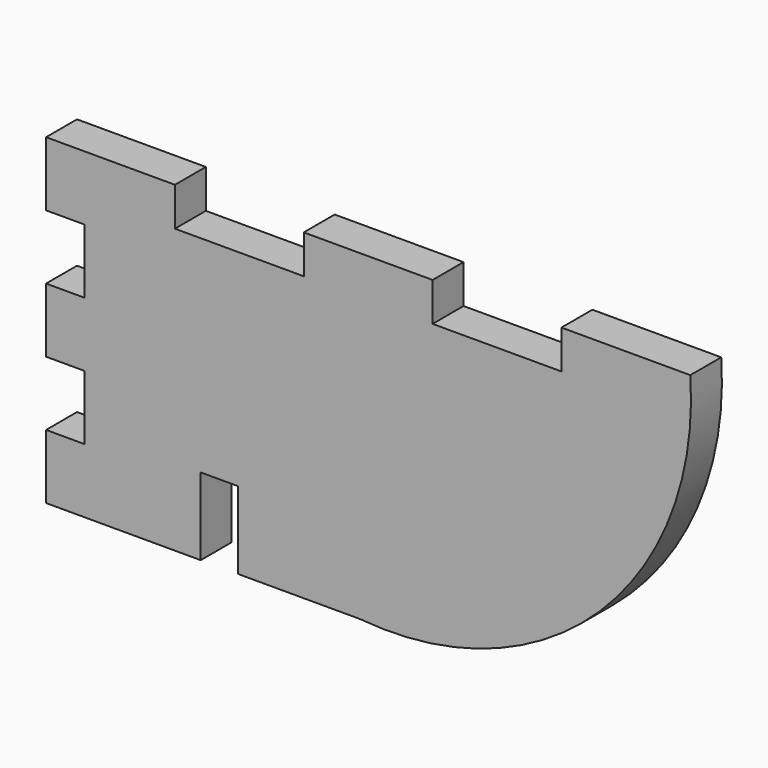
from build123d import *

# Parameters (mm, degrees)
F1_DEPTH = 3


with BuildPart() as f1:
    # F0 (on Front) → F1 (new body)
    with BuildSketch(Plane.XZ):
        with BuildLine():
            Line((-20.945015, -5), (-11.508791, -5))
            ThreePointArc((-11.508791, -5), (7.107153, 1.562372), (14.154985, 20))
            Line((14.154985, 20), (4.154985, 20))
            Line((4.154985, 20), (4.154985, 17))
            Line((4.154985, 17), (-5.845015, 17))
            Line((-5.845015, 17), (-5.845015, 20))
            Line((-5.845015, 20), (-15.845015, 20))
            Line((-15.845015, 20), (-15.845015, 17))
            Line((-15.845015, 17), (-25.845015, 17))
            Line((-25.845015, 17), (-25.845015, 20))
            Line((-25.845015, 20), (-35.845015, 20))
            Line((-35.845015, 20), (-35.845015, 15))
            Line((-35.845015, 15), (-32.845015, 15))
            Line((-32.845015, 15), (-32.845015, 10))
            Line((-32.845015, 10), (-35.845015, 10))
            Line((-35.845015, 10), (-35.845015, 5))
            Line((-35.845015, 5), (-32.845015, 5))
            Line((-32.845015, 5), (-32.845015, 0))
            Line((-32.845015, 0), (-35.845015, 0))
            Line((-35.845015, 0), (-35.845015, -5))
            Line((-35.845015, -5), (-23.845015, -5))
            Line((-23.845015, -5), (-23.845015, 1))
            Line((-23.845015, 1), (-20.945015, 1))
            Line((-20.945015, 1), (-20.945015, -5))
        make_face()
    extrude(amount=F1_DEPTH)


solid = f1.part
